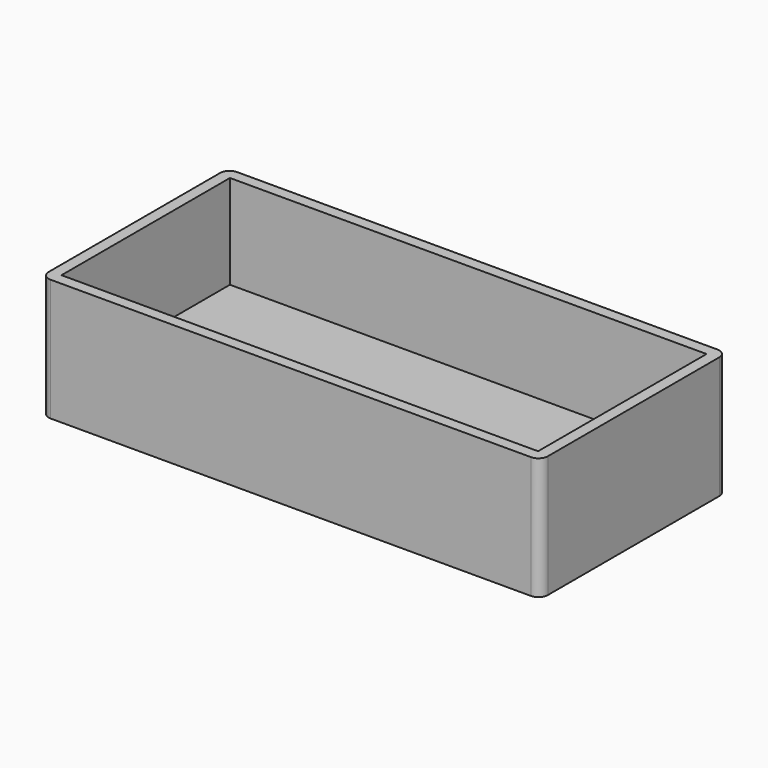
from build123d import *

# Parameters (mm, degrees)
F0_W     = 53.1
F0_H     = 24.8
F1_DEPTH = 13
F2_R     = 1
F3_W     = 50.7
F3_H     = 22.4
F4_DEPTH = 10


with BuildPart() as f1:
    # F0 (on Top) → F1 (new body)
    with BuildSketch(Plane.XY):
        with Locations((26.55, 12.4)):
            Rectangle(F0_W, F0_H)
    extrude(amount=F1_DEPTH)

    # F2
    f2_edges = [f1.edges().sort_by_distance(p)[0] for p in [
        (53.1, 24.8, 6.5),
        (53.1, 0, 6.5),
        (0, 24.8, 6.5),
        (0, 0, 6.5),
    ]]
    fillet(f2_edges, radius=F2_R)

    # F3 (on face) → F4 (cut)
    with BuildSketch(Plane.XY.offset(13)):
        with Locations((26.55, 12.4)):
            Rectangle(F3_W, F3_H)
    extrude(amount=-F4_DEPTH, mode=Mode.SUBTRACT)


solid = f1.part
